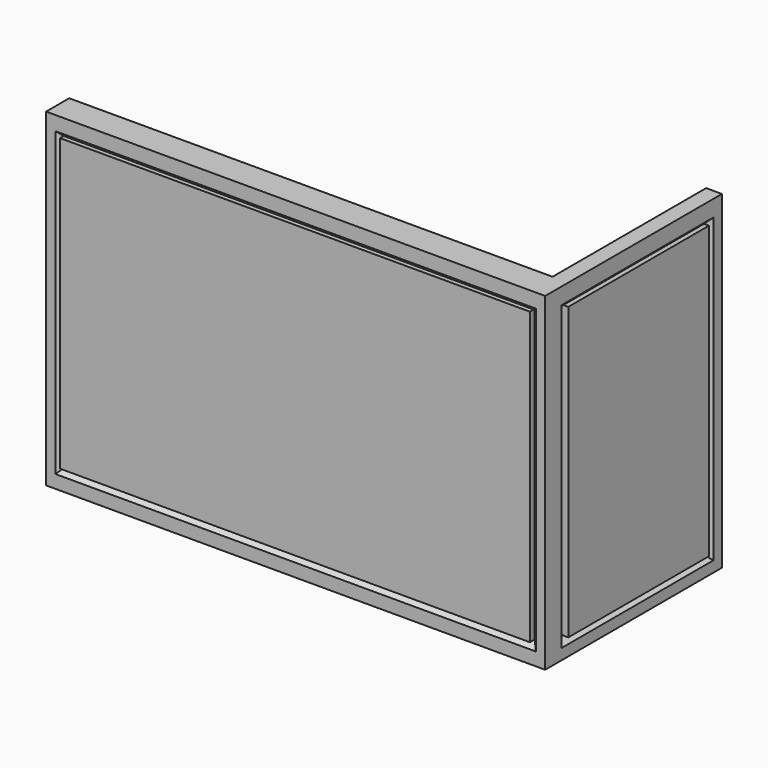
from build123d import *

# Parameters (mm, degrees)
F0_W     = 144.580562
F0_H     = 95.337302
F0_W_2   = 134.136807
F0_H_2   = 82.360171
F1_DEPTH = 8.382
F2_W     = 64.001322
F2_H     = 95.337302
F2_W_2   = 49.989581
F2_H_2   = 82.352217
F3_DEPTH = 4.572
F4_SIZE  = 2.54
F5_W     = 50.907161
F5_H     = 84.29788
F6_DEPTH = 2.032
F7_SIZE  = 2.54
F8_W     = 136.117357
F8_H     = 84.297877
F9_DEPTH = 2.286


with BuildPart() as f1:
    # F0 (on Front) → F1 (new body)
    with BuildSketch(Plane.XZ):
        with Locations((-13.217857, -8.547984)):
            Rectangle(F0_W, F0_H)
        with Locations((-13.217868, -8.711174)):
            Rectangle(F0_W_2, F0_H_2, mode=Mode.SUBTRACT)
    extrude(amount=F1_DEPTH)

    # F2 (on face) → F3 (join)
    with BuildSketch(Plane.YZ.offset(59.072424)):
        with Locations((23.618661, -8.547984)):
            Rectangle(F2_W, F2_H)
        with Locations((24.994791, -9.356501)):
            Rectangle(F2_W_2, F2_H_2, mode=Mode.SUBTRACT)
    extrude(amount=-F3_DEPTH)

    # F4
    f4_edges = [f1.edges().sort_by_distance(p)[0] for p in [
        (59.072424, 0, -9.356501),
        (59.072424, 24.994791, 31.819608),
        (59.072424, 49.989581, -9.356501),
        (59.072424, 24.994791, -50.532609),
    ]]
    chamfer(f4_edges, length=F4_SIZE)

    # F5 (on face) → F6 (join)
    with BuildSketch(Plane.YZ.offset(59.072424)):
        with Locations((25.45358, -9.214379)):
            Rectangle(F5_W, F5_H)
    extrude(amount=-F6_DEPTH)

    # F7
    f7_edges = [f1.edges().sort_by_distance(p)[0] for p in [
        (-13.217868, -8.382, 32.468911),
        (-80.286272, -8.382, -8.711174),
        (-13.217868, -8.382, -49.89126),
        (53.850535, -8.382, -8.711174),
    ]]
    chamfer(f7_edges, length=F7_SIZE)

    # F8 (on face) → F9 (join)
    with BuildSketch(Plane.XZ.offset(8.382)):
        with Locations((-13.412287, -8.484526)):
            Rectangle(F8_W, F8_H)
    extrude(amount=-F9_DEPTH)


solid = f1.part
